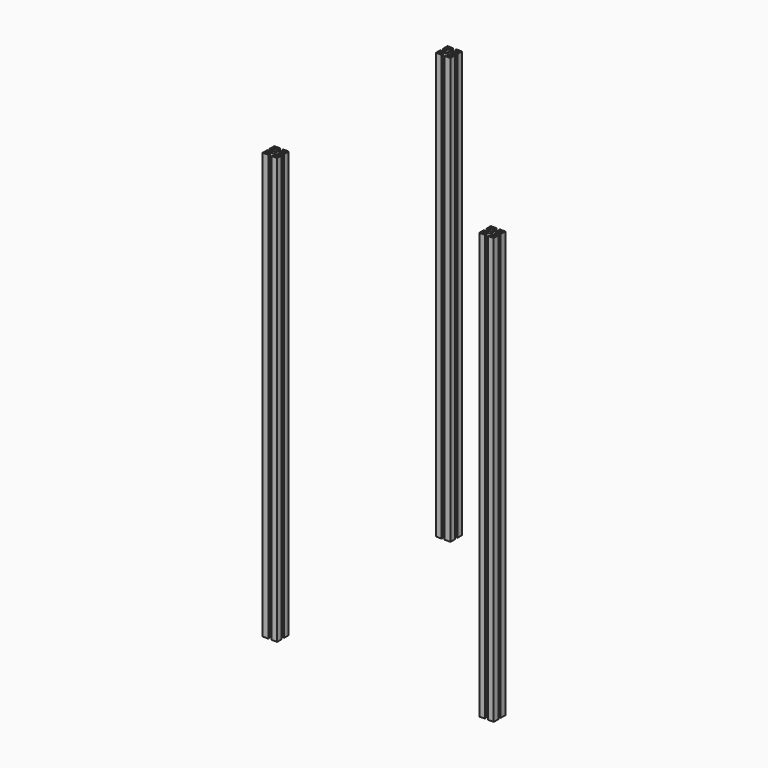
from build123d import *

# Parameters (mm, degrees)
F0_R     = 1.5
F1_DEPTH = 590


with BuildPart() as f1:
    # F0 (on Top) → F1 (new body)
    with BuildSketch(Plane.XY):
        Polygon((-2.15, 10), (-10, 10), (-10, 2.15), (-8.5, 2.15), (-8.5, 4.15), (-4.8, 4.15), (-3.3, -2.15), (-4.8, -2.15), (-4.8, -4.15), (-8.5, -4.15), (-8.5, -2.15), (-10, -2.15), (-10, -10), (-2.15, -10), (-2.15, -8.5), (-4.15, -8.5), (-4.15, -4.8), (2.15, -3.3), (2.15, -4.8), (4.15, -4.8), (4.15, -8.5), (2.15, -8.5), (2.15, -10), (10, -10), (10, -2.15), (8.5, -2.15), (8.5, -4.15), (4.8, -4.15), (3.3, 2.15), (4.8, 2.15), (4.8, 4.15), (8.5, 4.15), (8.5, 2.15), (10, 2.15), (10, 10), (2.15, 10), (2.15, 8.5), (4.15, 8.5), (4.15, 4.8), (-2.15, 3.3), (-2.15, 4.8), (-4.15, 4.8), (-4.15, 8.5), (-2.15, 8.5), align=None)
        with Locations((-7, -7)):
            Circle(F0_R, mode=Mode.SUBTRACT)
        with Locations((7, -7)):
            Circle(F0_R, mode=Mode.SUBTRACT)
        with Locations((-7, 7)):
            Circle(F0_R, mode=Mode.SUBTRACT)
        Circle(F0_R, mode=Mode.SUBTRACT)
        with Locations((7, 7)):
            Circle(F0_R, mode=Mode.SUBTRACT)
    extrude(amount=F1_DEPTH)


with BuildPart() as f2_1:
    # F2: copy of F1
    add(f1.part.moved(Location((0, 0, -300))))


with BuildPart() as f4_1:
    # F4: copy of F1
    add(f1.part.moved(Location((0, 300, 0))))


with BuildPart() as f5_1:
    # F5: copy of F1
    add(f1.part.moved(Location((300, 0, 0))))


solid = Compound([f1.part, f4_1.part, f5_1.part])
